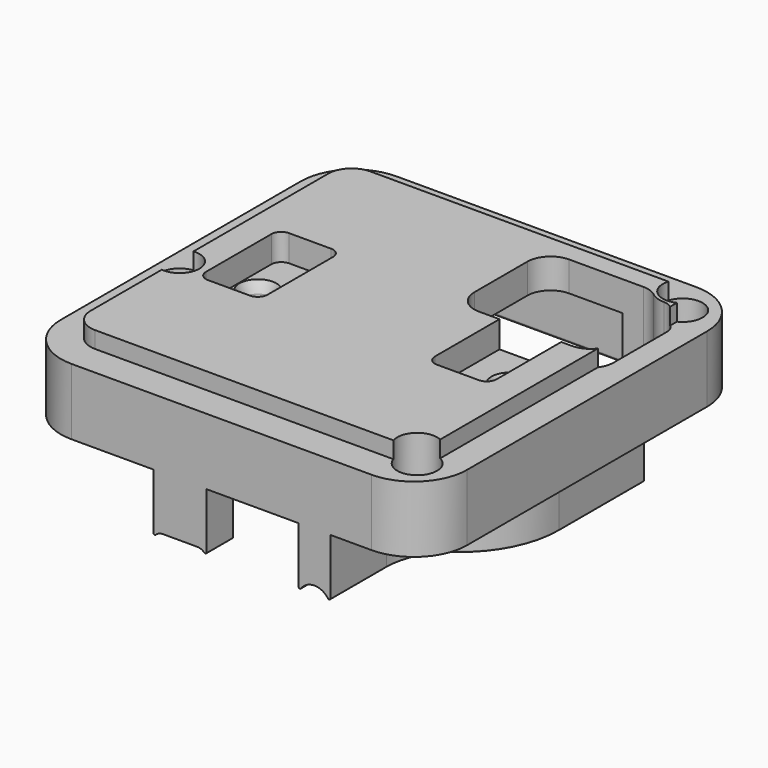
from build123d import *

# Parameters (mm, degrees)
PAD016_DEPTH         = 27.5
POCKET034_DEPTH      = 185.628421
SKETCH105_W          = 70
SKETCH105_H          = 70
POCKET036_DEPTH      = 2.501
POCKET050_DEPTH      = 22.501
SKETCH114_W          = 70
SKETCH114_H          = 16
POCKET051_DEPTH      = 30.601
POCKET051_DEPTH_BACK = 30.601
PAD020_DEPTH         = 5
SKETCH134_R          = 2.3
SKETCH135_R          = 4
POCKET052_DEPTH      = 9


with BuildPart() as part:
    # Sketch096 → Pad016 (new body)
    with BuildSketch(Plane.XY.offset(2.5)):
        with BuildLine():
            Line((-22.6, 30.6), (22.6, 30.6))
            ThreePointArc((30.6, 22.6), (28.256854, 28.256854), (22.6, 30.6))
            Line((30.6, 22.6), (30.6, -22.6))
            ThreePointArc((22.6, -30.6), (28.256854, -28.256854), (30.6, -22.6))
            Line((22.6, -30.6), (-22.6, -30.6))
            ThreePointArc((-30.6, -22.6), (-28.256854, -28.256854), (-22.6, -30.6))
            Line((-30.6, -22.6), (-30.6, 22.6))
            ThreePointArc((-22.6, 30.6), (-28.256854, 28.256854), (-30.6, 22.6))
        make_face()
    extrude(amount=-PAD016_DEPTH)

    # Sketch103 → Pocket034 (cut, through all)
    with BuildSketch(Plane.XY.offset(-1.5)):
        with BuildLine():
            Line((14.1, 7.65), (20.4, 7.65))
            ThreePointArc((21.9, 6.15), (21.46066, 7.21066), (20.4, 7.65))
            Line((21.9, 6.15), (21.9, -6.15))
            ThreePointArc((20.4, -7.65), (21.46066, -7.21066), (21.9, -6.15))
            Line((20.4, -7.65), (14.1, -7.65))
            ThreePointArc((12.6, -6.15), (13.03934, -7.21066), (14.1, -7.65))
            Line((12.6, -6.15), (12.6, 6.15))
            ThreePointArc((14.1, 7.65), (13.03934, 7.21066), (12.6, 6.15))
        make_face()
    pocket034 = extrude(amount=POCKET034_DEPTH, mode=Mode.SUBTRACT)

    # Mirrored008: Pocket034 across YZ
    add(pocket034.mirror(Plane.YZ), mode=Mode.SUBTRACT)

    # Sketch105 → Pocket036 (cut, through all)
    with BuildSketch(Plane.XY):
        Rectangle(SKETCH105_W, SKETCH105_H)
        with BuildLine():
            Line((-22.8, 25.9), (22.8, 25.9))
            ThreePointArc((26.3, 22.4), (25.274874, 24.874874), (22.8, 25.9))
            Line((26.3, 22.4), (26.3, -22.4))
            ThreePointArc((22.8, -25.9), (25.274874, -24.874874), (26.3, -22.4))
            Line((22.8, -25.9), (-22.8, -25.9))
            ThreePointArc((-26.3, -22.4), (-25.274874, -24.874874), (-22.8, -25.9))
            Line((-26.3, -22.4), (-26.3, 22.4))
            ThreePointArc((-22.8, 25.9), (-25.274874, 24.874874), (-26.3, 22.4))
        make_face(mode=Mode.SUBTRACT)
    extrude(amount=POCKET036_DEPTH, mode=Mode.SUBTRACT)

    # Sketch107 → Groove012 (revolve, cut)
    with BuildSketch(Plane.XZ):
        Polygon((19, -1.5), (21.8, -1.5), (21.2, -3.148486), (21.2, -13.5), (19, -13.5), align=None)
    groove012 = revolve(axis=Axis((19, 0, -1.5), (0, 0, 1)), mode=Mode.SUBTRACT)

    # Mirrored009: Groove012 across YZ
    add(groove012.mirror(Plane.YZ), mode=Mode.SUBTRACT)

    # Sketch113 → Pocket050 (cut, through all)
    with BuildSketch(Plane.XY.offset(-20)):
        with BuildLine():
            ThreePointArc((22.834936, 22.25), (23.854356, 21.692811), (25, 21.5))
            ThreePointArc((27, 19.5), (26.414214, 20.914214), (25, 21.5))
            Line((27, 9.5), (27, 19.5))
            ThreePointArc((23.5, 6), (25.974874, 7.025126), (27, 9.5))
            Line((9.5, 6), (23.5, 6))
            ThreePointArc((6, 9.5), (7.025126, 7.025126), (9.5, 6))
            Line((6, 19.5), (6, 9.5))
            ThreePointArc((9.5, 23), (7.025126, 21.974874), (6, 19.5))
            Line((20.669873, 23), (9.5, 23))
            ThreePointArc((22.834936, 22.25), (21.815517, 22.807189), (20.669873, 23))
        make_face()
    extrude(amount=POCKET050_DEPTH, mode=Mode.SUBTRACT)

    # Sketch114 → Pocket051 (cut, two sides)
    with BuildSketch(Plane.XZ) as pocket051_sk:
        with Locations((0, -18)):
            Rectangle(SKETCH114_W, SKETCH114_H)
    extrude(amount=-POCKET051_DEPTH, mode=Mode.SUBTRACT)
    extrude(pocket051_sk.sketch, amount=POCKET051_DEPTH_BACK, mode=Mode.SUBTRACT)

    # AdditivePipe004: sweep along a path in Sketch130
    with BuildLine(Plane.XY) as additivepipe004_path:
        Line((24, 16), (24, 0))
        ThreePointArc((24, 0), (22.68034, -5.59017), (19, -10))
        ThreePointArc((19, -10), (15.31966, -14.40983), (14, -20))
        Line((14, -20), (14, -30.6))
    # Sketch131 → AdditivePipe004 (sweep)
    with BuildSketch(Plane.XZ):
        with BuildLine():
            ThreePointArc((26.037037, -18.550697), (24, -17.5), (21.962963, -18.550697))
            ThreePointArc((21.6, -18.434752), (21.739142, -18.625268), (21.962963, -18.550697))
            Line((21.6, -10), (21.6, -18.434752))
            Line((26.4, -10), (21.6, -10))
            Line((26.4, -18.434752), (26.4, -10))
            ThreePointArc((26.037037, -18.550697), (26.260858, -18.625268), (26.4, -18.434752))
        make_face()
    sweep(path=additivepipe004_path.line)

    # Sketch110 → Pad020 (join)
    with BuildSketch(Plane.XZ.offset(30.6)):
        with BuildLine():
            ThreePointArc((-8.85, -18.1), (-9.422826, -18.213685), (-9.908824, -18.537506))
            ThreePointArc((-10.25, -18.395841), (-10.126696, -18.58055), (-9.908824, -18.537506))
            Line((-10.25, -10), (-10.25, -18.395841))
            Line((-2.25, -10), (-10.25, -10))
            Line((-2.25, -18.395841), (-2.25, -10))
            ThreePointArc((-2.591176, -18.537506), (-2.373304, -18.58055), (-2.25, -18.395841))
            ThreePointArc((-2.591176, -18.537506), (-3.077174, -18.213685), (-3.65, -18.1))
            Line((-8.85, -18.1), (-3.65, -18.1))
        make_face()
    extrude(amount=-PAD020_DEPTH)

    # Sketch134 → AdditiveLoft section 0
    with BuildSketch(Plane.XY.offset(-17.5)):
        with Locations((-6, -6.5)):
            Circle(SKETCH134_R)
    # Sketch135 → AdditiveLoft section 1
    with BuildSketch(Plane.XY.offset(-10)):
        with Locations((-6, -6.5)):
            Circle(SKETCH135_R)
    loft()

    # AdditivePipe005: sweep along a path in Sketch136
    with BuildLine(Plane.XY) as additivepipe005_path:
        Line((-22.5, 27.5), (22.5, 27.5))
        ThreePointArc((22.5, 27.5), (26.035534, 26.035534), (27.5, 22.5))
        Line((27.5, 22.5), (27.5, -22.5))
        ThreePointArc((27.5, -22.5), (26.035534, -26.035534), (22.5, -27.5))
        Line((22.5, -27.5), (-22.5, -27.5))
        ThreePointArc((-22.5, -27.5), (-26.035534, -26.035534), (-27.5, -22.5))
        Line((-27.5, -22.5), (-27.5, 22.5))
        ThreePointArc((-27.5, 22.5), (-26.035534, 26.035534), (-22.5, 27.5))
    # Sketch137 → AdditivePipe005 (sweep)
    with BuildSketch(Plane.YZ):
        Polygon((28.397056, -10), (26.602944, -10), (27.1, -11.2), (27.9, -11.2), align=None)
    sweep(path=additivepipe005_path.line)

    # Sketch104 → Pocket052 (cut, symmetric)
    with BuildSketch(Plane.XY.offset(-11)):
        Polygon((-26.5, 27), (17.5, 27), (17.5, 23), (15.5, 23), (15.5, 7), (-25.5, 7), (-25.5, 23), (-26.5, 23), align=None)
    extrude(amount=POCKET052_DEPTH, both=True, mode=Mode.SUBTRACT)

    # Sketch099 → Groove018 (revolve, cut)
    with BuildSketch(Plane.XZ.offset(6)):
        Polygon((-26, 3), (-26, -24), (-24.2, -24), (-24.2, -8), (-23, -6.8), (-23, 3), align=None)
    revolve(axis=Axis((-26, -6, 3), (0, 0, 1)), mode=Mode.SUBTRACT)

    # Sketch100 → Groove019 (revolve, cut)
    with BuildSketch(Plane.XZ.offset(25)):
        Polygon((25, 3), (25, -24), (26.8, -24), (26.8, -8), (28, -6.8), (28, 3), align=None)
    revolve(axis=Axis((25, -25, 3), (0, 0, 1)), mode=Mode.SUBTRACT)

    # Sketch101 → Groove020 (revolve, cut)
    with BuildSketch(Plane.XZ.offset(-25)):
        Polygon((25, 3), (25, -24), (26.8, -24), (26.8, -8), (28, -6.8), (28, 3), align=None)
    revolve(axis=Axis((25, 25, 3), (0, 0, 1)), mode=Mode.SUBTRACT)


solid = part.part
